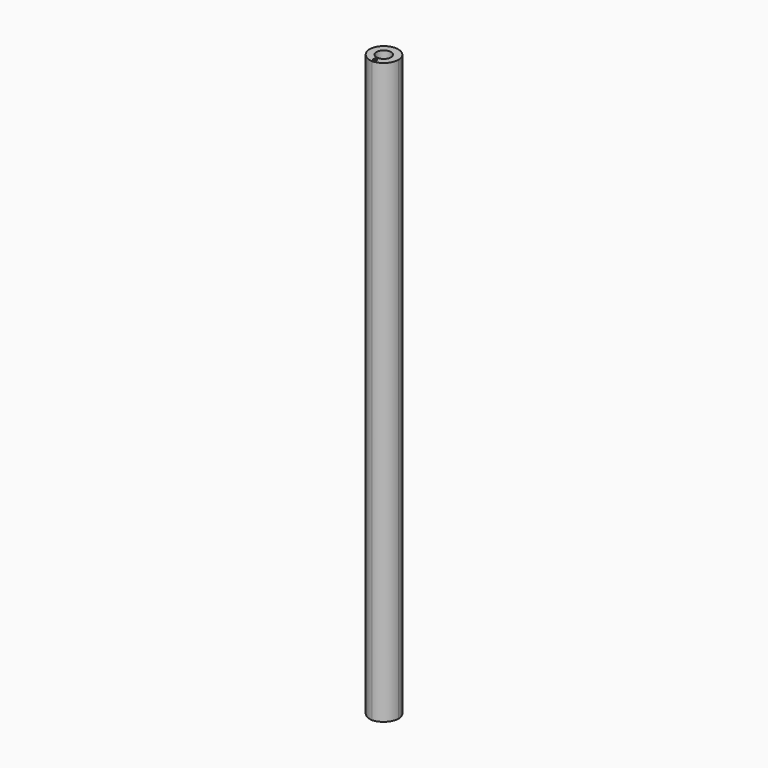
from build123d import *

# Parameters (mm, degrees)
F0_R     = 0.125
F0_R_2   = 0.5
F1_DEPTH = 40


with BuildPart() as f1:
    # F0 (on Top) → F1 (new body)
    with BuildSketch(Plane.XY):
        with BuildLine():
            ThreePointArc((0, -1), (0.689513, -0.689513), (1, 0))
            ThreePointArc((1, 0), (0, 1), (-1, 0))
            ThreePointArc((-1, 0), (-0.689513, -0.689513), (0, -1))
        make_face()
        with Locations((0, -0.75)):
            Circle(F0_R, mode=Mode.SUBTRACT)
        Circle(F0_R_2, mode=Mode.SUBTRACT)
    extrude(amount=F1_DEPTH)


solid = f1.part
